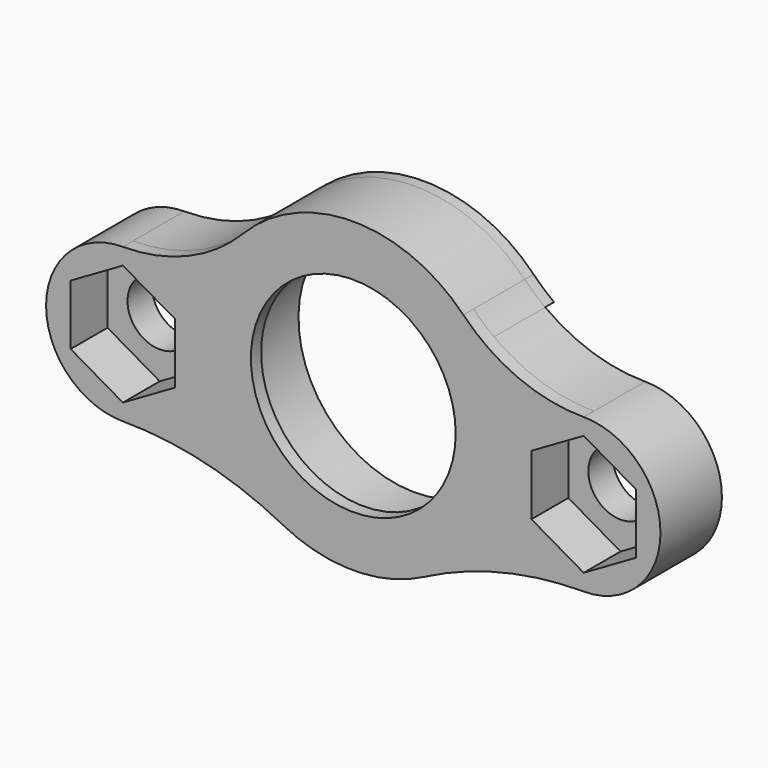
from build123d import *

# Parameters (mm, degrees)
F2_DEPTH = 7.9375
F3_R     = 14.4145
F3_R_2   = 12.7
F4_DEPTH = 1.5875
F5_R     = 4.0005
F6_DEPTH = 5.715
F7_DEPTH = 9.526
F8_DEPTH = 1.3716


with BuildPart() as f2:
    # F1 (on Front) → F2 (new body)
    with BuildSketch(Plane.XZ):
        with BuildLine():
            ThreePointArc((-9.2268886896, 15.0622), (0, 18.4023), (9.2268886896, 15.0622))
            Line((9.2268886896, 15.0622), (16.1826561854, 15.0622))
            ThreePointArc((16.1826561854, 15.0622), (14.8730374451, 16.1166346988), (13.6527661358, 17.2732987427))
            ThreePointArc((13.6527661358, 17.2732987427), (0, 23.0378), (-13.6527661358, 17.2732987427))
            ThreePointArc((-13.6527661358, 17.2732987427), (-14.8730374451, 16.1166346988), (-16.1826561854, 15.0622))
            Line((-16.1826561854, 15.0622), (-9.2268886896, 15.0622))
        make_face()
        with BuildLine():
            ThreePointArc((9.2268886896, 15.0622), (13.0533290249, 10.1024064155), (14.4145, 3.9878))
            ThreePointArc((14.4145, 3.9878), (-6.1146064155, -9.0655290249), (-9.2268886896, 15.0622))
            Line((-9.2268886896, 15.0622), (-16.1826561854, 15.0622))
            ThreePointArc((-16.1826561854, 15.0622), (-22.0501747614, 12.0215629242), (-28.575, 10.9728))
            ThreePointArc((-28.575, 10.9728), (-38.1, 1.4478), (-28.575, -8.0772))
            ThreePointArc((-28.575, -8.0772), (-18.3903131498, -9.3039356127), (-8.7882106244, -12.9139707363))
            ThreePointArc((-8.7882106244, -12.9139707363), (0, -15.0622), (8.7882106244, -12.9139707363))
            ThreePointArc((8.7882106244, -12.9139707363), (18.3903131498, -9.3039356127), (28.575, -8.0772))
            ThreePointArc((28.575, -8.0772), (38.1, 1.4478), (28.575, 10.9728))
            ThreePointArc((28.575, 10.9728), (22.0501747614, 12.0215629242), (16.1826561854, 15.0622))
            Line((16.1826561854, 15.0622), (9.2268886896, 15.0622))
        make_face()
        with BuildLine():
            ThreePointArc((9.2268886896, 15.0622), (13.0533290249, 10.1024064155), (14.4145, 3.9878))
            ThreePointArc((14.4145, 3.9878), (-6.1146064155, -9.0655290249), (-9.2268886896, 15.0622))
            Line((-9.2268886896, 15.0622), (-16.1826561854, 15.0622))
            ThreePointArc((-16.1826561854, 15.0622), (-22.0501747614, 12.0215629242), (-28.575, 10.9728))
            ThreePointArc((-28.575, 10.9728), (-38.1, 1.4478), (-28.575, -8.0772))
            ThreePointArc((-28.575, -8.0772), (-18.3903131498, -9.3039356127), (-8.7882106244, -12.9139707363))
            ThreePointArc((-8.7882106244, -12.9139707363), (0, -15.0622), (8.7882106244, -12.9139707363))
            ThreePointArc((8.7882106244, -12.9139707363), (18.3903131498, -9.3039356127), (28.575, -8.0772))
            ThreePointArc((28.575, -8.0772), (38.1, 1.4478), (28.575, 10.9728))
            ThreePointArc((28.575, 10.9728), (22.0501747614, 12.0215629242), (16.1826561854, 15.0622))
            Line((16.1826561854, 15.0622), (9.2268886896, 15.0622))
        make_face()
    extrude(amount=F2_DEPTH)

    # F3 (on face) → F4 (join)
    with BuildSketch(Plane.XZ.offset(7.9375)):
        with BuildLine():
            ThreePointArc((28.575, -8.0772), (38.1, 1.4478), (28.575, 10.9728))
            ThreePointArc((28.575, 10.9728), (20.4760903835, 12.6124877504), (13.6527661358, 17.2732987427))
            ThreePointArc((13.6527661358, 17.2732987427), (0, 23.0378), (-13.6527661358, 17.2732987427))
            ThreePointArc((-13.6527661358, 17.2732987427), (-20.4760903835, 12.6124877504), (-28.575, 10.9728))
            ThreePointArc((-28.575, 10.9728), (-38.1, 1.4478), (-28.575, -8.0772))
            ThreePointArc((-28.575, -8.0772), (-18.3903131498, -9.3039356127), (-8.7882106244, -12.9139707363))
            ThreePointArc((-8.7882106244, -12.9139707363), (0, -15.0622), (8.7882106244, -12.9139707363))
            ThreePointArc((8.7882106244, -12.9139707363), (18.3903131498, -9.3039356127), (28.575, -8.0772))
        make_face()
        with Locations((0, 3.9878)):
            Circle(F3_R, mode=Mode.SUBTRACT)
        with Locations((0, 3.9878)):
            Circle(F3_R)
        with Locations((0, 3.9878)):
            Circle(F3_R_2, mode=Mode.SUBTRACT)
    extrude(amount=F4_DEPTH)

    # F5 (on face) → F6 (cut)
    with BuildSketch(Plane.XZ.offset(9.525)):
        Polygon((-22.098, -2.2916976935), (-22.098, 5.1872976935), (-28.575, 8.9267953871), (-35.052, 5.1872976935), (-35.052, -2.2916976935), (-28.575, -6.0311953871), align=None)
        with Locations((-28.575, 1.4478)):
            Circle(F5_R, mode=Mode.SUBTRACT)
        Polygon((22.098, 5.1872976935), (22.098, -2.2916976935), (28.575, -6.0311953871), (35.052, -2.2916976935), (35.052, 5.1872976935), (28.575, 8.9267953871), align=None)
        with Locations((28.575, 1.4478)):
            Circle(F5_R, mode=Mode.SUBTRACT)
    extrude(amount=-F6_DEPTH, mode=Mode.SUBTRACT)

    # F7 (cut, through all): faces of the model
    f7_faces = [f2.faces().sort_by_distance(p)[0] for p in [
        (-28.575, -9.525, 1.4478),
        (28.575, -9.525, 1.4478),
    ]]
    extrude(f7_faces, amount=-F7_DEPTH, mode=Mode.SUBTRACT)

    # F1 (on Front) → F8 (join)
    with BuildSketch(Plane.XZ):
        with BuildLine():
            ThreePointArc((-9.2268886896, 15.0622), (0, 18.4023), (9.2268886896, 15.0622))
            Line((9.2268886896, 15.0622), (16.1826561854, 15.0622))
            ThreePointArc((16.1826561854, 15.0622), (14.8730374451, 16.1166346988), (13.6527661358, 17.2732987427))
            ThreePointArc((13.6527661358, 17.2732987427), (0, 23.0378), (-13.6527661358, 17.2732987427))
            ThreePointArc((-13.6527661358, 17.2732987427), (-14.8730374451, 16.1166346988), (-16.1826561854, 15.0622))
            Line((-16.1826561854, 15.0622), (-9.2268886896, 15.0622))
        make_face()
    extrude(amount=-F8_DEPTH)


solid = f2.part
